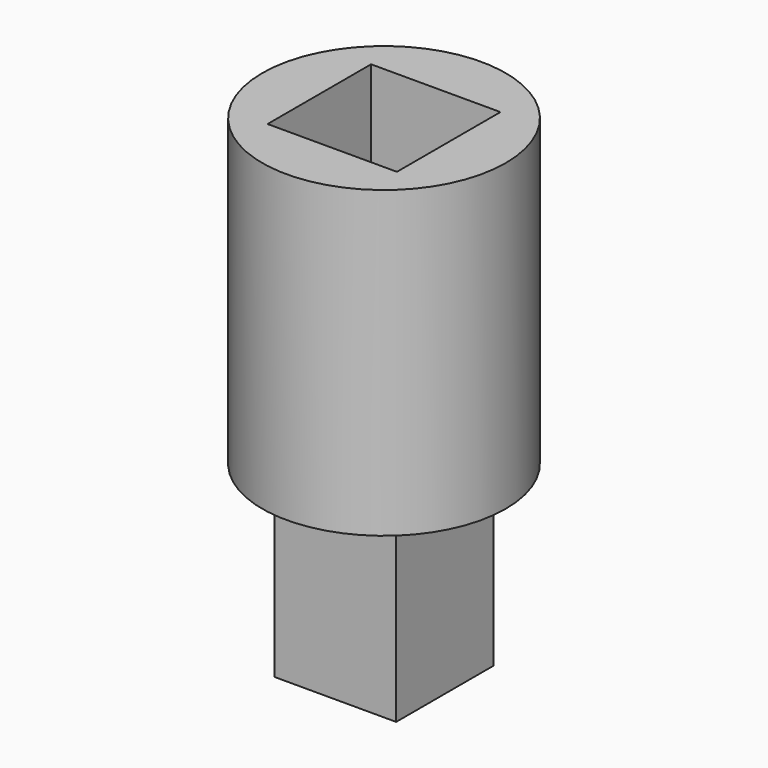
from build123d import *

# Parameters (mm, degrees)
F0_R     = 4
F0_W     = 4
F0_H     = 4
F1_DEPTH = 10
F2_W     = 4.25
F2_H     = 4.25
F3_DEPTH = 7
F4_DEPTH = 6


with BuildPart() as f1:
    # F0 (on Top) → F1 (new body)
    with BuildSketch(Plane.XY):
        Circle(F0_R)
        Rectangle(F0_W, F0_H, mode=Mode.SUBTRACT)
        Rectangle(F0_W, F0_H)
    extrude(amount=F1_DEPTH)

    # F2 (on face) → F3 (cut)
    with BuildSketch(Plane.XY.offset(10)):
        Rectangle(F2_W, F2_H)
    extrude(amount=-F3_DEPTH, mode=Mode.SUBTRACT)

    # F0 (on Top) → F4 (join)
    with BuildSketch(Plane.XY):
        Rectangle(F0_W, F0_H)
    extrude(amount=-F4_DEPTH)


solid = f1.part
